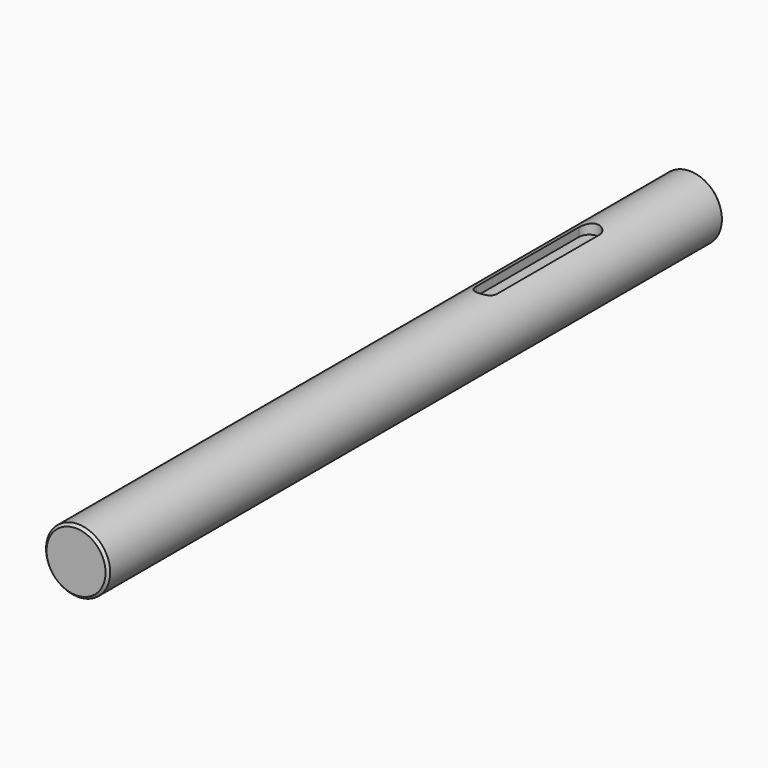
from build123d import *

# Parameters (mm, degrees)
F0_R     = 12.5
F1_DEPTH = 150
F4_DEPTH = 4
F5_SIZE  = 1


with BuildPart() as f1:
    # F0 (on Front) → F1 (new body, symmetric)
    with BuildSketch(Plane.XZ):
        Circle(F0_R)
    extrude(amount=F1_DEPTH, both=True)

    # F3 (on offset) → F4 (cut)
    with BuildSketch(Plane.XY.offset(12.5)):
        with BuildLine():
            Line((4, 50), (4, 100))
            ThreePointArc((4, 100), (0, 104), (-4, 100))
            Line((-4, 100), (-4, 50))
            ThreePointArc((-4, 50), (0, 46), (4, 50))
        make_face()
    extrude(amount=-F4_DEPTH, mode=Mode.SUBTRACT)

    # F5
    f5_edges = [f1.edges().sort_by_distance(p)[0] for p in [
        (-12.5, 150, 0),
        (-12.5, -150, 0),
    ]]
    chamfer(f5_edges, length=F5_SIZE)


solid = f1.part
